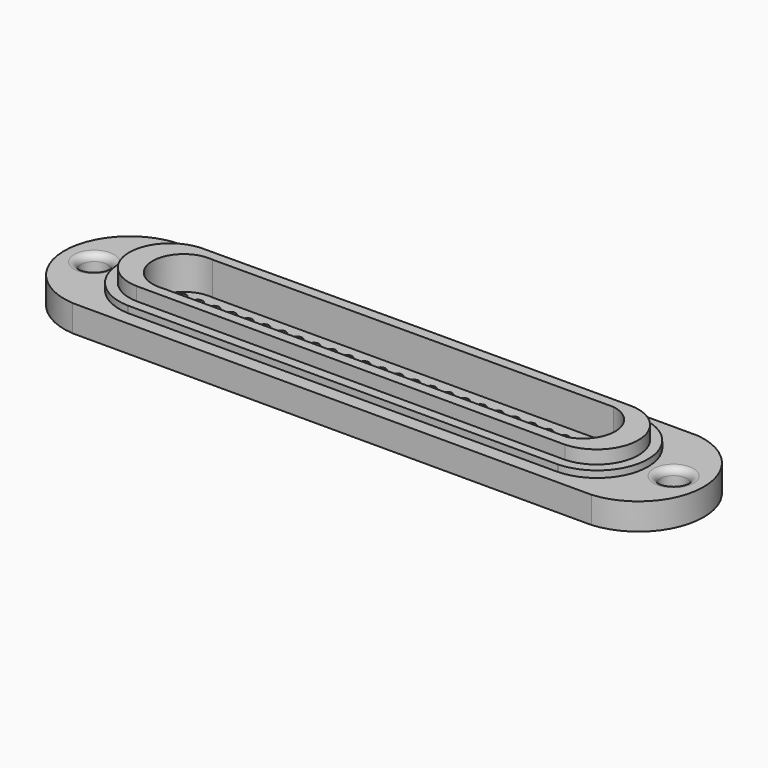
from build123d import *

# Parameters (mm, degrees)
F0_R     = 2
F1_DEPTH = 4
F2_DEPTH = 5
F3_DEPTH = 7
F4_DEPTH = 2
F5_R     = 0.75
F5_R_2   = 0.7
F6_DEPTH = 25
F7_R     = 1


with BuildPart() as f1:
    # F0 (on Top) → F1 (new body)
    with BuildSketch(Plane.XY):
        with BuildLine():
            Line((-38.977494, -9.75), (0, -9.75))
            Line((0, -9.75), (38.977494, -9.75))
            ThreePointArc((38.977494, -9.75), (47.998028, -0.177918), (39.370675, 9.75))
            Line((39.370675, 9.75), (0, 9.75))
            Line((0, 9.75), (-39.370675, 9.75))
            ThreePointArc((-39.370675, 9.75), (-47.998028, -0.177918), (-38.977494, -9.75))
        make_face()
        with Locations((-43.5, 0)):
            Circle(F0_R, mode=Mode.SUBTRACT)
        with BuildLine():
            ThreePointArc((-32.335569, -7.688448), (-39.696451, -0.275465), (-32.78809, 7.560953))
            Line((-32.78809, 7.560953), (32.78809, 7.560953))
            ThreePointArc((32.78809, 7.560953), (39.696451, -0.275465), (32.335569, -7.688448))
            Line((32.335569, -7.688448), (32.202672, -7.692434))
            Line((32.202672, -7.692434), (-32.202672, -7.692434))
            Line((-32.202672, -7.692434), (-32.335569, -7.688448))
        make_face(mode=Mode.SUBTRACT)
        with Locations((43.5, 0)):
            Circle(F0_R, mode=Mode.SUBTRACT)
    extrude(amount=F1_DEPTH)

    # F0 (on Top) → F2 (join)
    with BuildSketch(Plane.XY):
        with BuildLine():
            Line((32.78809, 7.560953), (-32.78809, 7.560953))
            ThreePointArc((-32.78809, 7.560953), (-39.696451, -0.275465), (-32.335569, -7.688448))
            Line((-32.335569, -7.688448), (-32.202672, -7.692434))
            Line((-32.202672, -7.692434), (32.202672, -7.692434))
            Line((32.202672, -7.692434), (32.335569, -7.688448))
            ThreePointArc((32.335569, -7.688448), (39.696451, -0.275465), (32.78809, 7.560953))
        make_face()
        with BuildLine():
            Line((-31.980952, 6.095746), (-0.002622, 6.276632))
            Line((-0.002622, 6.276632), (31.953452, 6.276632))
            ThreePointArc((31.953452, 6.276632), (38.198581, 0.113907), (32.161089, -6.252371))
            Line((32.161089, -6.252371), (-32.165032, -6.192614))
            ThreePointArc((-32.165032, -6.192614), (-38.199125, 0.043335), (-31.980952, 6.095746))
        make_face(mode=Mode.SUBTRACT)
    extrude(amount=F2_DEPTH)

    # F0 (on Top) → F3 (join)
    with BuildSketch(Plane.XY):
        with BuildLine():
            Line((31.953452, 6.276632), (-0.002622, 6.276632))
            Line((-0.002622, 6.276632), (-31.980952, 6.095746))
            ThreePointArc((-31.980952, 6.095746), (-38.199125, 0.043335), (-32.165032, -6.192614))
            Line((-32.165032, -6.192614), (32.161089, -6.252371))
            ThreePointArc((32.161089, -6.252371), (38.198581, 0.113907), (31.953452, 6.276632))
        make_face()
        with BuildLine():
            ThreePointArc((-29.439345, -4.707238), (-34.69993, -0.04857), (-29.439345, 4.610098))
            Line((-29.439345, 4.610098), (30.636781, 4.776632))
            ThreePointArc((30.636781, 4.776632), (34.693866, 0.271074), (31.09103, -4.605355))
            Line((31.09103, -4.605355), (-29.439345, -4.707238))
        make_face(mode=Mode.SUBTRACT)
    extrude(amount=F3_DEPTH)

    # F0 (on Top) → F4 (join)
    with BuildSketch(Plane.XY):
        with BuildLine():
            Line((30.636781, 4.776632), (-29.439345, 4.610098))
            ThreePointArc((-29.439345, 4.610098), (-34.69993, -0.04857), (-29.439345, -4.707238))
            Line((-29.439345, -4.707238), (31.09103, -4.605355))
            ThreePointArc((31.09103, -4.605355), (34.693866, 0.271074), (30.636781, 4.776632))
        make_face()
    extrude(amount=F4_DEPTH)

    # F5 (on face) → F6 (cut)
    with BuildSketch(Plane.XY.offset(2)):
        with BuildLine():
            ThreePointArc((0, 0.75), (-0.75, 0), (0, -0.75))
            ThreePointArc((0, -0.75), (0.75, 0), (0, 0.75))
        make_face()
        with BuildLine():
            ThreePointArc((0, 3.25), (-0.75, 2.5), (0, 1.75))
            ThreePointArc((0, 1.75), (0.75, 2.5), (0, 3.25))
        make_face()
        with Locations((2.5, 0)):
            Circle(F5_R)
        with Locations((2.5, 2.5)):
            Circle(F5_R)
        with Locations((5, 0)):
            Circle(F5_R)
        with Locations((5, 2.5)):
            Circle(F5_R)
        with Locations((7.5, 0)):
            Circle(F5_R)
        with Locations((7.5, 2.5)):
            Circle(F5_R)
        with Locations((10, 0)):
            Circle(F5_R)
        with Locations((10, 2.5)):
            Circle(F5_R)
        with Locations((12.5, 0)):
            Circle(F5_R)
        with Locations((12.5, 2.5)):
            Circle(F5_R)
        with Locations((15, 0)):
            Circle(F5_R)
        with Locations((15, 2.5)):
            Circle(F5_R)
        with Locations((17.5, 0)):
            Circle(F5_R)
        with Locations((17.5, 2.5)):
            Circle(F5_R)
        with Locations((20, 0)):
            Circle(F5_R)
        with Locations((20, 2.5)):
            Circle(F5_R)
        with Locations((22.5, 0)):
            Circle(F5_R)
        with Locations((22.5, 2.5)):
            Circle(F5_R)
        with Locations((25, 0)):
            Circle(F5_R)
        with Locations((25, 2.5)):
            Circle(F5_R)
        with Locations((27.5, 0)):
            Circle(F5_R)
        with Locations((27.5, 2.5)):
            Circle(F5_R)
        with Locations((2.5, -2.5)):
            Circle(F5_R)
        with Locations((5, -2.5)):
            Circle(F5_R)
        with Locations((7.5, -2.5)):
            Circle(F5_R)
        with Locations((10, -2.5)):
            Circle(F5_R)
        with Locations((12.5, -2.5)):
            Circle(F5_R)
        with Locations((15, -2.5)):
            Circle(F5_R)
        with Locations((17.5, -2.5)):
            Circle(F5_R)
        with Locations((20, -2.5)):
            Circle(F5_R)
        with Locations((22.5, -2.5)):
            Circle(F5_R)
        with Locations((25, -2.5)):
            Circle(F5_R)
        with Locations((27.5, -2.5)):
            Circle(F5_R)
        with Locations((-12.5, 0)):
            Circle(F5_R)
        with Locations((-17.5, 0)):
            Circle(F5_R)
        with Locations((-7.5, 0)):
            Circle(F5_R)
        with Locations((-5, 0)):
            Circle(F5_R)
        with Locations((-15, 0)):
            Circle(F5_R)
        with Locations((-20, 0)):
            Circle(F5_R)
        with Locations((-10, 0)):
            Circle(F5_R)
        with Locations((-12.5, 2.5)):
            Circle(F5_R)
        with Locations((-10, 2.5)):
            Circle(F5_R)
        with Locations((-7.5, 2.5)):
            Circle(F5_R)
        with Locations((-5, 2.5)):
            Circle(F5_R)
        with Locations((-2.5, 0)):
            Circle(F5_R)
        with Locations((-2.5, 2.5)):
            Circle(F5_R)
        with Locations((-17.5, 2.5)):
            Circle(F5_R)
        with Locations((-15, 2.5)):
            Circle(F5_R)
        with Locations((-20, 2.5)):
            Circle(F5_R)
        with Locations((-27.5, 0)):
            Circle(F5_R)
        with Locations((-22.5, 0)):
            Circle(F5_R)
        with Locations((-25, 0)):
            Circle(F5_R)
        with Locations((-27.5, -2.5)):
            Circle(F5_R)
        with Locations((-25, 2.5)):
            Circle(F5_R)
        with Locations((-22.5, 2.5)):
            Circle(F5_R)
        with Locations((-17.5, -2.5)):
            Circle(F5_R)
        with Locations((-27.5, 2.5)):
            Circle(F5_R)
        with Locations((-20, -2.5)):
            Circle(F5_R)
        with Locations((-22.5, -2.5)):
            Circle(F5_R)
        with Locations((-25, -2.5)):
            Circle(F5_R)
        with Locations((-2.5, -2.5)):
            Circle(F5_R)
        with Locations((-5, -2.5)):
            Circle(F5_R)
        with Locations((-7.5, -2.5)):
            Circle(F5_R)
        with Locations((-10, -2.5)):
            Circle(F5_R)
        with Locations((-12.5, -2.5)):
            Circle(F5_R)
        with Locations((-15, -2.5)):
            Circle(F5_R)
        with Locations((0.020794, -2.485011)):
            Circle(F5_R_2)
        with Locations((-29.956931, 0.036661)):
            Circle(F5_R)
        with Locations((29.956931, 0.036661)):
            Circle(F5_R)
        with Locations((29.949998, 2.5)):
            Circle(F5_R)
        with Locations((32.449998, 2.5)):
            Circle(F5_R)
        with Locations((29.949998, -2.5)):
            Circle(F5_R)
        with Locations((32.449998, 0)):
            Circle(F5_R)
        with Locations((32.449998, -2.5)):
            Circle(F5_R)
        with Locations((-32.466013, 0.00955)):
            Circle(F5_R)
        with Locations((-32.466013, -2.49045)):
            Circle(F5_R)
        with Locations((-29.966013, 2.50955)):
            Circle(F5_R)
        with Locations((-32.466013, 2.50955)):
            Circle(F5_R)
        with Locations((-29.966013, -2.49045)):
            Circle(F5_R)
    extrude(amount=-F6_DEPTH, mode=Mode.SUBTRACT)

    # F7
    f7_edges = [f1.edges().sort_by_distance(p)[0] for p in [
        (-45.5, 0, 4),
        (41.5, 0, 4),
    ]]
    fillet(f7_edges, radius=F7_R)


solid = f1.part
